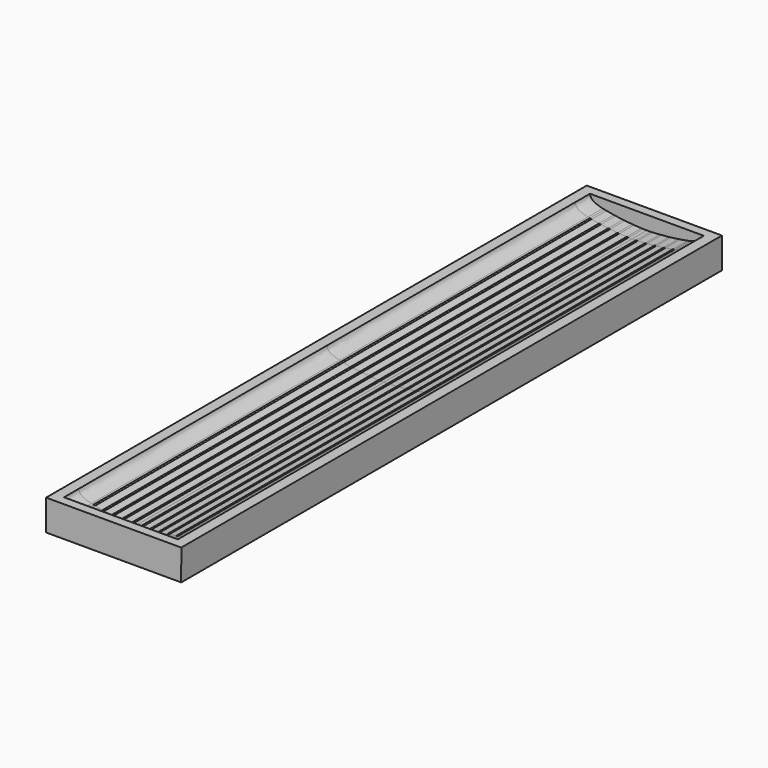
from build123d import *

# Parameters (mm, degrees)
F1_DEPTH = 50.5
F2_DEPTH = 53.5
F3_W     = 22
F3_H     = 110
F4_DEPTH = 5
F6_ANGLE = 180


with BuildPart() as f1:
    # F0 (on Front) → F1 (new body, symmetric)
    with BuildSketch(Plane.XZ):
        with BuildLine():
            add(Edge.make_bspline(
                [(0.0278349863, 1.1241926399), (0.0215711196, 1.1242002112), (0.0153244216, 1.124204), (0.009095, 1.124204)],
                knots=[0.9965720368, 0.9965720368, 0.9965720368, 0.9965720368, 1, 1, 1, 1], degree=3))
            add(Edge.make_bspline(
                [(0.009095, 1.124204), (-0.1808039351, 1.124307365), (-0.3867535177, 1.1208985822), (-0.6057079955, 1.1141501048)],
                knots=[0, 0, 0, 0, 0.1044988476, 0.1044988476, 0.1044988476, 0.1044988476], degree=3))
            add(Edge.make_bspline(
                [(-0.6057079955, 1.1141501048), (-0.7031541988, 1.1111466791), (-0.8031763023, 1.1074817549), (-0.9055058162, 1.1031705341)],
                knots=[0.1044988476, 0.1044988476, 0.1044988476, 0.1044988476, 0.1510063045, 0.1510063045, 0.1510063045, 0.1510063045], degree=3))
            add(Edge.make_bspline(
                [(-0.9055058162, 1.1031705341), (-1.2792738947, 1.0874233989), (-1.6838261427, 1.0630537403), (-2.1060788252, 1.0308023713)],
                knots=[0.1510063045, 0.1510063045, 0.1510063045, 0.1510063045, 0.3208791215, 0.3208791215, 0.3208791215, 0.3208791215], degree=3))
            add(Edge.make_bspline(
                [(-2.1060788252, 1.0308023713), (-2.2048477583, 1.0232584683), (-2.3045851472, 1.0152833279), (-2.4051235457, 1.0068864311)],
                knots=[0.3208791215, 0.3208791215, 0.3208791215, 0.3208791215, 0.360613995, 0.360613995, 0.360613995, 0.360613995], degree=3))
            add(Edge.make_bspline(
                [(-2.4051235457, 1.0068864311), (-2.7967476934, 0.974178256), (-3.2005256578, 0.9350707191), (-3.606560792, 0.8901241775)],
                knots=[0.360613995, 0.360613995, 0.360613995, 0.360613995, 0.5153920319, 0.5153920319, 0.5153920319, 0.5153920319], degree=3))
            add(Edge.make_bspline(
                [(-3.606560792, 0.8901241775), (-3.7058294609, 0.8791355143), (-3.8052330451, 0.8677978426), (-3.9046269229, 0.856119351)],
                knots=[0.5153920319, 0.5153920319, 0.5153920319, 0.5153920319, 0.5532326235, 0.5532326235, 0.5532326235, 0.5532326235], degree=3))
            add(Edge.make_bspline(
                [(-3.9046269229, 0.856119351), (-4.3089153513, 0.8086166364), (-4.7130431876, 0.7554751015), (-5.1072778322, 0.6972458149)],
                knots=[0.5532326235, 0.5532326235, 0.5532326235, 0.5532326235, 0.7071506883, 0.7071506883, 0.7071506883, 0.7071506883], degree=3))
            add(Edge.make_bspline(
                [(-5.1072778322, 0.6972458149), (-5.2068254623, 0.6825424205), (-5.3057422967, 0.667514628), (-5.4038716397, 0.6521713098)],
                knots=[0.7071506883, 0.7071506883, 0.7071506883, 0.7071506883, 0.7460163201, 0.7460163201, 0.7460163201, 0.7460163201], degree=3))
            add(Edge.make_bspline(
                [(-5.4038716397, 0.6521713098), (-5.8240161361, 0.5864783121), (-6.2297246811, 0.5150012331), (-6.6086986475, 0.4384364322)],
                knots=[0.7460163201, 0.7460163201, 0.7460163201, 0.7460163201, 0.9124209941, 0.9124209941, 0.9124209941, 0.9124209941], degree=3))
            add(Edge.make_bspline(
                [(-6.6086986475, 0.4384364322), (-6.7085006446, 0.4182732529), (-6.8064485421, 0.3977572293), (-6.9023177212, 0.3769010796)],
                knots=[0.9124209941, 0.9124209941, 0.9124209941, 0.9124209941, 0.9562433151, 0.9562433151, 0.9562433151, 0.9562433151], degree=3))
            add(Edge.make_bspline(
                [(-6.9023177212, 0.3769010796), (-6.9980433097, 0.3560761677), (-7.0916964021, 0.3349121478), (-7.1830533872, 0.3134216809)],
                knots=[0.9562433151, 0.9562433151, 0.9562433151, 0.9562433151, 1, 1, 1, 1], degree=3))
            add(Edge.make_bspline(
                [(-7.1830533872, 0.3134216809), (-8.4909693872, 0.0050006809), (-9.1727113872, -0.3264013191), (-9.2556223872, -1.1202893191)],
                knots=[0, 0, 0, 0, 1, 1, 1, 1], degree=3))
            Line((-9.2556223872, -1.1202893191), (9.273923, -1.124204))
            add(Edge.make_bspline(
                [(9.273923, -1.124204), (9.191023, -0.330316), (8.50927, 0.001086), (7.201353, 0.309507)],
                knots=[0, 0, 0, 0, 1, 1, 1, 1], degree=3))
            add(Edge.make_bspline(
                [(7.201353, 0.309507), (7.1006300365, 0.3332586721), (6.9971138387, 0.3566149356), (6.8911043115, 0.379558654)],
                knots=[0, 0, 0, 0, 0.0482487879, 0.0482487879, 0.0482487879, 0.0482487879], degree=3))
            add(Edge.make_bspline(
                [(6.8911043115, 0.379558654), (6.7951793366, 0.4003197654), (6.6972128434, 0.4207430882), (6.5974270319, 0.4408159257)],
                knots=[0.0482487879, 0.0482487879, 0.0482487879, 0.0482487879, 0.0919077296, 0.0919077296, 0.0919077296, 0.0919077296], degree=3))
            add(Edge.make_bspline(
                [(6.5974270319, 0.4408159257), (6.218055923, 0.5171299278), (5.8123882132, 0.5883779828), (5.3926343129, 0.6538623849)],
                knots=[0.0919077296, 0.0919077296, 0.0919077296, 0.0919077296, 0.2578926616, 0.2578926616, 0.2578926616, 0.2578926616], degree=3))
            add(Edge.make_bspline(
                [(5.3926343129, 0.6538623849), (5.2944831912, 0.6691746131), (5.1955618854, 0.6841717047), (5.0960265057, 0.6988447395)],
                knots=[0.2578926616, 0.2578926616, 0.2578926616, 0.2578926616, 0.2967049448, 0.2967049448, 0.2967049448, 0.2967049448], degree=3))
            add(Edge.make_bspline(
                [(5.0960265057, 0.6988447395), (4.701551697, 0.7569963496), (4.2974318455, 0.8100581127), (3.8933845114, 0.8574747649)],
                knots=[0.2967049448, 0.2967049448, 0.2967049448, 0.2967049448, 0.4505243006, 0.4505243006, 0.4505243006, 0.4505243006], degree=3))
            add(Edge.make_bspline(
                [(3.8933845114, 0.8574747649), (3.7939749873, 0.8691408902), (3.6945698529, 0.8804653006), (3.5953138336, 0.8914397264)],
                knots=[0.4505243006, 0.4505243006, 0.4505243006, 0.4505243006, 0.4883691462, 0.4883691462, 0.4883691462, 0.4883691462], degree=3))
            add(Edge.make_bspline(
                [(3.5953138336, 0.8914397264), (3.1890290862, 0.9363613526), (2.7852427773, 0.9754189482), (2.3938807057, 1.0080453505)],
                knots=[0.4883691462, 0.4883691462, 0.4883691462, 0.4883691462, 0.6432794842, 0.6432794842, 0.6432794842, 0.6432794842], degree=3))
            add(Edge.make_bspline(
                [(2.3938807057, 1.0080453505), (2.2933214158, 1.016428605), (2.1935823955, 1.024387261), (2.0948320271, 1.031911697)],
                knots=[0.6432794842, 0.6432794842, 0.6432794842, 0.6432794842, 0.6830832228, 0.6830832228, 0.6830832228, 0.6830832228], degree=3))
            add(Edge.make_bspline(
                [(2.0948320271, 1.031911697), (1.6721252238, 1.0641204914), (1.2675336724, 1.0883729927), (0.8942641672, 1.1039145617)],
                knots=[0.6830832228, 0.6830832228, 0.6830832228, 0.6830832228, 0.8534654844, 0.8534654844, 0.8534654844, 0.8534654844], degree=3))
            add(Edge.make_bspline(
                [(0.8942641672, 1.1039145617), (0.7918822251, 1.1081773691), (0.6918566982, 1.111784837), (0.5944601076, 1.1147213935)],
                knots=[0.8534654844, 0.8534654844, 0.8534654844, 0.8534654844, 0.9001986533, 0.9001986533, 0.9001986533, 0.9001986533], degree=3))
            add(Edge.make_bspline(
                [(0.5944601076, 1.1147213935), (0.3936083531, 1.1207771755), (0.2039366502, 1.1239797791), (0.0278349863, 1.1241926399)],
                knots=[0.9001986533, 0.9001986533, 0.9001986533, 0.9001986533, 0.9965720368, 0.9965720368, 0.9965720368, 0.9965720368], degree=3))
        make_face()
        with BuildLine():
            add(Edge.make_bspline(
                [(-6.6086986475, 0.4384364322), (-6.7085006446, 0.4182732529), (-6.8064485421, 0.3977572293), (-6.9023177212, 0.3769010796)],
                knots=[0.9124209941, 0.9124209941, 0.9124209941, 0.9124209941, 0.9562433151, 0.9562433151, 0.9562433151, 0.9562433151], degree=3))
            ThreePointArc((-6.6086986475, 0.4384364322), (-6.7863902754, 0.5550242285), (-6.9023177212, 0.3769010796))
        make_face()
        with BuildLine():
            add(Edge.make_bspline(
                [(-5.1072778322, 0.6972458149), (-5.2068254623, 0.6825424205), (-5.3057422967, 0.667514628), (-5.4038716397, 0.6521713098)],
                knots=[0.7071506883, 0.7071506883, 0.7071506883, 0.7071506883, 0.7460163201, 0.7460163201, 0.7460163201, 0.7460163201], degree=3))
            ThreePointArc((-5.1072778322, 0.6972458149), (-5.2781596901, 0.8233193462), (-5.4038716397, 0.6521713098))
        make_face()
        with BuildLine():
            add(Edge.make_bspline(
                [(-3.606560792, 0.8901241775), (-3.7058294609, 0.8791355143), (-3.8052330451, 0.8677978426), (-3.9046269229, 0.856119351)],
                knots=[0.5153920319, 0.5153920319, 0.5153920319, 0.5153920319, 0.5532326235, 0.5532326235, 0.5532326235, 0.5532326235], degree=3))
            ThreePointArc((-3.606560792, 0.8901241775), (-3.7726248244, 1.0224051141), (-3.9046269229, 0.856119351))
        make_face()
        with BuildLine():
            add(Edge.make_bspline(
                [(-2.1060788252, 1.0308023713), (-2.2048477583, 1.0232584683), (-2.3045851472, 1.0152833279), (-2.4051235457, 1.0068864311)],
                knots=[0.3208791215, 0.3208791215, 0.3208791215, 0.3208791215, 0.360613995, 0.360613995, 0.360613995, 0.360613995], degree=3))
            ThreePointArc((-2.1060788252, 1.0308023713), (-2.2675803761, 1.1686321032), (-2.4051235457, 1.0068864311))
        make_face()
        with BuildLine():
            add(Edge.make_bspline(
                [(-0.6057079955, 1.1141501048), (-0.7031541988, 1.1111466791), (-0.8031763023, 1.1074817549), (-0.9055058162, 1.1031705341)],
                knots=[0.1044988476, 0.1044988476, 0.1044988476, 0.1044988476, 0.1510063045, 0.1510063045, 0.1510063045, 0.1510063045], degree=3))
            ThreePointArc((-0.6057079955, 1.1141501048), (-0.7611121944, 1.2589825436), (-0.9055058162, 1.1031705341))
        make_face()
        with BuildLine():
            ThreePointArc((0.8942641672, 1.1039145617), (0.7497810509, 1.2596499427), (0.5944601076, 1.1147213935))
            add(Edge.make_bspline(
                [(0.8942641672, 1.1039145617), (0.7918822251, 1.1081773691), (0.6918566982, 1.111784837), (0.5944601076, 1.1147213935)],
                knots=[0.8534654844, 0.8534654844, 0.8534654844, 0.8534654844, 0.9001986533, 0.9001986533, 0.9001986533, 0.9001986533], degree=3))
        make_face()
        with BuildLine():
            ThreePointArc((2.3938807057, 1.0080453505), (2.256310805, 1.1697693206), (2.0948320271, 1.031911697))
            add(Edge.make_bspline(
                [(2.3938807057, 1.0080453505), (2.2933214158, 1.016428605), (2.1935823955, 1.024387261), (2.0948320271, 1.031911697)],
                knots=[0.6432794842, 0.6432794842, 0.6432794842, 0.6432794842, 0.6830832228, 0.6830832228, 0.6830832228, 0.6830832228], degree=3))
        make_face()
        with BuildLine():
            ThreePointArc((3.8933845114, 0.8574747649), (3.7613601174, 1.0237423812), (3.5953138336, 0.8914397264))
            add(Edge.make_bspline(
                [(3.8933845114, 0.8574747649), (3.7939749873, 0.8691408902), (3.6945698529, 0.8804653006), (3.5953138336, 0.8914397264)],
                knots=[0.4505243006, 0.4505243006, 0.4505243006, 0.4505243006, 0.4883691462, 0.4883691462, 0.4883691462, 0.4883691462], degree=3))
        make_face()
        with BuildLine():
            ThreePointArc((5.3926343129, 0.6538623849), (5.2668688397, 0.8249690463), (5.0960265057, 0.6988447395))
            add(Edge.make_bspline(
                [(5.3926343129, 0.6538623849), (5.2944831912, 0.6691746131), (5.1955618854, 0.6841717047), (5.0960265057, 0.6988447395)],
                knots=[0.2578926616, 0.2578926616, 0.2578926616, 0.2578926616, 0.2967049448, 0.2967049448, 0.2967049448, 0.2967049448], degree=3))
        make_face()
        with BuildLine():
            ThreePointArc((6.8911043115, 0.379558654), (6.7750064532, 0.5575635741), (6.5974270319, 0.4408159257))
            add(Edge.make_bspline(
                [(6.8911043115, 0.379558654), (6.7951793366, 0.4003197654), (6.6972128434, 0.4207430882), (6.5974270319, 0.4408159257)],
                knots=[0.0482487879, 0.0482487879, 0.0482487879, 0.0482487879, 0.0919077296, 0.0919077296, 0.0919077296, 0.0919077296], degree=3))
        make_face()
    extrude(amount=F1_DEPTH, both=True)

    # F0 (on Front) → F2 (join, symmetric)
    with BuildSketch(Plane.XZ):
        with BuildLine():
            add(Edge.make_bspline(
                [(0.0278349863, 1.1241926399), (0.0215711196, 1.1242002112), (0.0153244216, 1.124204), (0.009095, 1.124204)],
                knots=[0.9965720368, 0.9965720368, 0.9965720368, 0.9965720368, 1, 1, 1, 1], degree=3))
            add(Edge.make_bspline(
                [(0.009095, 1.124204), (-0.1808039351, 1.124307365), (-0.3867535177, 1.1208985822), (-0.6057079955, 1.1141501048)],
                knots=[0, 0, 0, 0, 0.1044988476, 0.1044988476, 0.1044988476, 0.1044988476], degree=3))
            add(Edge.make_bspline(
                [(-0.6057079955, 1.1141501048), (-0.7031541988, 1.1111466791), (-0.8031763023, 1.1074817549), (-0.9055058162, 1.1031705341)],
                knots=[0.1044988476, 0.1044988476, 0.1044988476, 0.1044988476, 0.1510063045, 0.1510063045, 0.1510063045, 0.1510063045], degree=3))
            add(Edge.make_bspline(
                [(-0.9055058162, 1.1031705341), (-1.2792738947, 1.0874233989), (-1.6838261427, 1.0630537403), (-2.1060788252, 1.0308023713)],
                knots=[0.1510063045, 0.1510063045, 0.1510063045, 0.1510063045, 0.3208791215, 0.3208791215, 0.3208791215, 0.3208791215], degree=3))
            add(Edge.make_bspline(
                [(-2.1060788252, 1.0308023713), (-2.2048477583, 1.0232584683), (-2.3045851472, 1.0152833279), (-2.4051235457, 1.0068864311)],
                knots=[0.3208791215, 0.3208791215, 0.3208791215, 0.3208791215, 0.360613995, 0.360613995, 0.360613995, 0.360613995], degree=3))
            add(Edge.make_bspline(
                [(-2.4051235457, 1.0068864311), (-2.7967476934, 0.974178256), (-3.2005256578, 0.9350707191), (-3.606560792, 0.8901241775)],
                knots=[0.360613995, 0.360613995, 0.360613995, 0.360613995, 0.5153920319, 0.5153920319, 0.5153920319, 0.5153920319], degree=3))
            add(Edge.make_bspline(
                [(-3.606560792, 0.8901241775), (-3.7058294609, 0.8791355143), (-3.8052330451, 0.8677978426), (-3.9046269229, 0.856119351)],
                knots=[0.5153920319, 0.5153920319, 0.5153920319, 0.5153920319, 0.5532326235, 0.5532326235, 0.5532326235, 0.5532326235], degree=3))
            add(Edge.make_bspline(
                [(-3.9046269229, 0.856119351), (-4.3089153513, 0.8086166364), (-4.7130431876, 0.7554751015), (-5.1072778322, 0.6972458149)],
                knots=[0.5532326235, 0.5532326235, 0.5532326235, 0.5532326235, 0.7071506883, 0.7071506883, 0.7071506883, 0.7071506883], degree=3))
            add(Edge.make_bspline(
                [(-5.1072778322, 0.6972458149), (-5.2068254623, 0.6825424205), (-5.3057422967, 0.667514628), (-5.4038716397, 0.6521713098)],
                knots=[0.7071506883, 0.7071506883, 0.7071506883, 0.7071506883, 0.7460163201, 0.7460163201, 0.7460163201, 0.7460163201], degree=3))
            add(Edge.make_bspline(
                [(-5.4038716397, 0.6521713098), (-5.8240161361, 0.5864783121), (-6.2297246811, 0.5150012331), (-6.6086986475, 0.4384364322)],
                knots=[0.7460163201, 0.7460163201, 0.7460163201, 0.7460163201, 0.9124209941, 0.9124209941, 0.9124209941, 0.9124209941], degree=3))
            add(Edge.make_bspline(
                [(-6.6086986475, 0.4384364322), (-6.7085006446, 0.4182732529), (-6.8064485421, 0.3977572293), (-6.9023177212, 0.3769010796)],
                knots=[0.9124209941, 0.9124209941, 0.9124209941, 0.9124209941, 0.9562433151, 0.9562433151, 0.9562433151, 0.9562433151], degree=3))
            add(Edge.make_bspline(
                [(-6.9023177212, 0.3769010796), (-6.9980433097, 0.3560761677), (-7.0916964021, 0.3349121478), (-7.1830533872, 0.3134216809)],
                knots=[0.9562433151, 0.9562433151, 0.9562433151, 0.9562433151, 1, 1, 1, 1], degree=3))
            add(Edge.make_bspline(
                [(-7.1830533872, 0.3134216809), (-8.4909693872, 0.0050006809), (-9.1727113872, -0.3264013191), (-9.2556223872, -1.1202893191)],
                knots=[0, 0, 0, 0, 1, 1, 1, 1], degree=3))
            Line((-9.2556223872, -1.1202893191), (9.273923, -1.124204))
            add(Edge.make_bspline(
                [(9.273923, -1.124204), (9.191023, -0.330316), (8.50927, 0.001086), (7.201353, 0.309507)],
                knots=[0, 0, 0, 0, 1, 1, 1, 1], degree=3))
            add(Edge.make_bspline(
                [(7.201353, 0.309507), (7.1006300365, 0.3332586721), (6.9971138387, 0.3566149356), (6.8911043115, 0.379558654)],
                knots=[0, 0, 0, 0, 0.0482487879, 0.0482487879, 0.0482487879, 0.0482487879], degree=3))
            add(Edge.make_bspline(
                [(6.8911043115, 0.379558654), (6.7951793366, 0.4003197654), (6.6972128434, 0.4207430882), (6.5974270319, 0.4408159257)],
                knots=[0.0482487879, 0.0482487879, 0.0482487879, 0.0482487879, 0.0919077296, 0.0919077296, 0.0919077296, 0.0919077296], degree=3))
            add(Edge.make_bspline(
                [(6.5974270319, 0.4408159257), (6.218055923, 0.5171299278), (5.8123882132, 0.5883779828), (5.3926343129, 0.6538623849)],
                knots=[0.0919077296, 0.0919077296, 0.0919077296, 0.0919077296, 0.2578926616, 0.2578926616, 0.2578926616, 0.2578926616], degree=3))
            add(Edge.make_bspline(
                [(5.3926343129, 0.6538623849), (5.2944831912, 0.6691746131), (5.1955618854, 0.6841717047), (5.0960265057, 0.6988447395)],
                knots=[0.2578926616, 0.2578926616, 0.2578926616, 0.2578926616, 0.2967049448, 0.2967049448, 0.2967049448, 0.2967049448], degree=3))
            add(Edge.make_bspline(
                [(5.0960265057, 0.6988447395), (4.701551697, 0.7569963496), (4.2974318455, 0.8100581127), (3.8933845114, 0.8574747649)],
                knots=[0.2967049448, 0.2967049448, 0.2967049448, 0.2967049448, 0.4505243006, 0.4505243006, 0.4505243006, 0.4505243006], degree=3))
            add(Edge.make_bspline(
                [(3.8933845114, 0.8574747649), (3.7939749873, 0.8691408902), (3.6945698529, 0.8804653006), (3.5953138336, 0.8914397264)],
                knots=[0.4505243006, 0.4505243006, 0.4505243006, 0.4505243006, 0.4883691462, 0.4883691462, 0.4883691462, 0.4883691462], degree=3))
            add(Edge.make_bspline(
                [(3.5953138336, 0.8914397264), (3.1890290862, 0.9363613526), (2.7852427773, 0.9754189482), (2.3938807057, 1.0080453505)],
                knots=[0.4883691462, 0.4883691462, 0.4883691462, 0.4883691462, 0.6432794842, 0.6432794842, 0.6432794842, 0.6432794842], degree=3))
            add(Edge.make_bspline(
                [(2.3938807057, 1.0080453505), (2.2933214158, 1.016428605), (2.1935823955, 1.024387261), (2.0948320271, 1.031911697)],
                knots=[0.6432794842, 0.6432794842, 0.6432794842, 0.6432794842, 0.6830832228, 0.6830832228, 0.6830832228, 0.6830832228], degree=3))
            add(Edge.make_bspline(
                [(2.0948320271, 1.031911697), (1.6721252238, 1.0641204914), (1.2675336724, 1.0883729927), (0.8942641672, 1.1039145617)],
                knots=[0.6830832228, 0.6830832228, 0.6830832228, 0.6830832228, 0.8534654844, 0.8534654844, 0.8534654844, 0.8534654844], degree=3))
            add(Edge.make_bspline(
                [(0.8942641672, 1.1039145617), (0.7918822251, 1.1081773691), (0.6918566982, 1.111784837), (0.5944601076, 1.1147213935)],
                knots=[0.8534654844, 0.8534654844, 0.8534654844, 0.8534654844, 0.9001986533, 0.9001986533, 0.9001986533, 0.9001986533], degree=3))
            add(Edge.make_bspline(
                [(0.5944601076, 1.1147213935), (0.3936083531, 1.1207771755), (0.2039366502, 1.1239797791), (0.0278349863, 1.1241926399)],
                knots=[0.9001986533, 0.9001986533, 0.9001986533, 0.9001986533, 0.9965720368, 0.9965720368, 0.9965720368, 0.9965720368], degree=3))
        make_face()
    extrude(amount=F2_DEPTH, both=True)


with BuildPart() as f4:
    # F3 (on face) → F4 (new body)
    with BuildSketch(Plane(origin=(-0.0002370932, 0, -1.1222446763), x_dir=(0.9999999777, 0, -0.000211267), z_dir=(-0.000211267, 0, -0.9999999777))):
        Rectangle(F3_W, F3_H)
        Polygon((-9.2553855005, 50.5), (-9.2553855005, 53.5), (9.2741603002, 53.5), (9.2741603002, 50.5), (9.2741603002, 0), (9.2741603002, -50.5), (9.2741603002, -53.5), (-9.2553855005, -53.5), (-9.2553855005, -50.5), (-9.2553855005, 0), align=None, mode=Mode.SUBTRACT)
        Polygon((9.2741603002, 53.5), (-9.2553855005, 53.5), (-9.2553855005, 50.5), (-9.2553855005, 0), (-9.2553855005, -50.5), (-9.2553855005, -53.5), (9.2741603002, -53.5), (9.2741603002, -50.5), (9.2741603002, 0), (9.2741603002, 50.5), align=None)
    extrude(amount=-F4_DEPTH)

    # F5: cut F1
    add(f1.part, mode=Mode.SUBTRACT)


with BuildPart() as f4_1:
    # F6: moved
    add(f4.part.rotate(Axis((11.0008189961, 0, 3.8754312755), (0, 1, 0)), F6_ANGLE))


solid = f4_1.part
